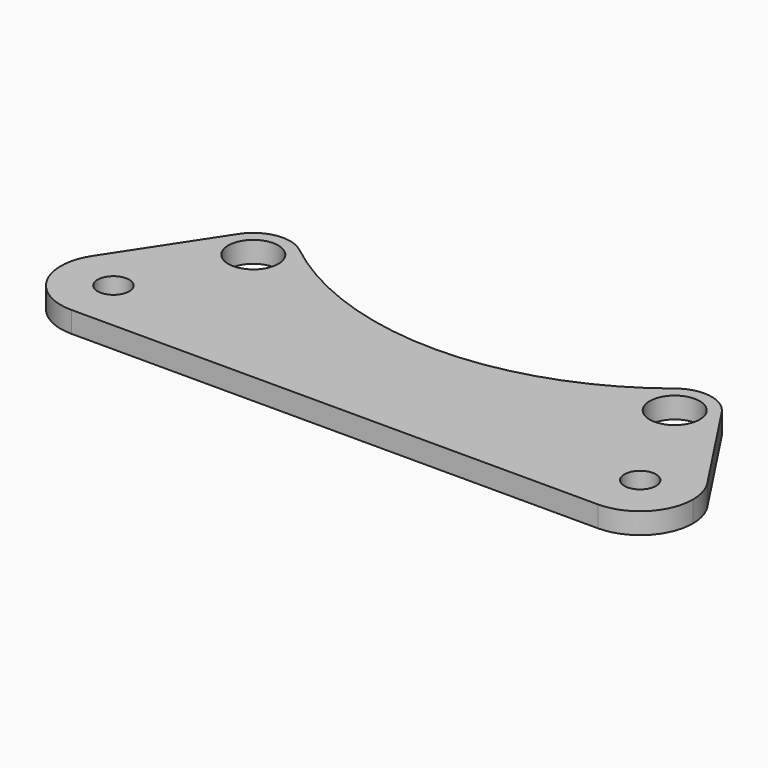
from build123d import *

# Parameters (mm, degrees)
F0_R     = 1.5
F0_R_2   = 2.375
F1_DEPTH = 2


with BuildPart() as f1:
    # F0 (on Top) → F1 (new body)
    with BuildSketch(Plane.XY):
        with BuildLine():
            ThreePointArc((-25, -5), (-21.464466, -3.535534), (-20, 0))
            ThreePointArc((-20, 0), (-23.567586, 4.790427), (-29.179276, 2.744749))
            ThreePointArc((-29.179276, 2.744749), (-29.400213, -2.374474), (-25, -5))
        make_face()
        with Locations((-25, 0)):
            Circle(F0_R, mode=Mode.SUBTRACT)
        with BuildLine():
            ThreePointArc((-29.179276, 2.744749), (-23.567586, 4.790427), (-20, 0))
            ThreePointArc((-20, 0), (-21.464466, -3.535534), (-25, -5))
            Line((-25, -5), (25, -5))
            ThreePointArc((25, -5), (20.599787, 2.374474), (29.179276, 2.744749))
            Line((29.179276, 2.744749), (22.925493, 12.267035))
            ThreePointArc((22.925493, 12.267035), (23.353299, 11.3484), (23.5, 10.345711))
            ThreePointArc((23.5, 10.345711), (18.473521, 7.196129), (17.831507, 13.093007))
            ThreePointArc((17.831507, 13.093007), (0, 6.90353), (-17.831507, 13.093007))
            ThreePointArc((-17.831507, 13.093007), (-16.850419, 11.872189), (-16.5, 10.345711))
            ThreePointArc((-16.5, 10.345711), (-21.00269, 6.992412), (-22.925493, 12.267035))
            Line((-22.925493, 12.267035), (-29.179276, 2.744749))
        make_face()
        with BuildLine():
            ThreePointArc((29.179276, 2.744749), (20.599787, 2.374474), (25, -5))
            ThreePointArc((25, -5), (28.535534, -3.535534), (30, 0))
            ThreePointArc((30, 0), (29.790427, 1.432414), (29.179276, 2.744749))
        make_face()
        with Locations((25, 0)):
            Circle(F0_R, mode=Mode.SUBTRACT)
        with BuildLine():
            ThreePointArc((22.925493, 12.267035), (20.560196, 13.800588), (17.831507, 13.093007))
            ThreePointArc((17.831507, 13.093007), (18.473521, 7.196129), (23.5, 10.345711))
            ThreePointArc((23.5, 10.345711), (23.353299, 11.3484), (22.925493, 12.267035))
        make_face()
        with Locations((20, 10.345711)):
            Circle(F0_R_2, mode=Mode.SUBTRACT)
        with BuildLine():
            ThreePointArc((-17.831507, 13.093007), (-20.560196, 13.800588), (-22.925493, 12.267035))
            ThreePointArc((-22.925493, 12.267035), (-21.00269, 6.992412), (-16.5, 10.345711))
            ThreePointArc((-16.5, 10.345711), (-16.850419, 11.872189), (-17.831507, 13.093007))
        make_face()
        with Locations((-20, 10.345711)):
            Circle(F0_R_2, mode=Mode.SUBTRACT)
    extrude(amount=F1_DEPTH)


solid = f1.part
